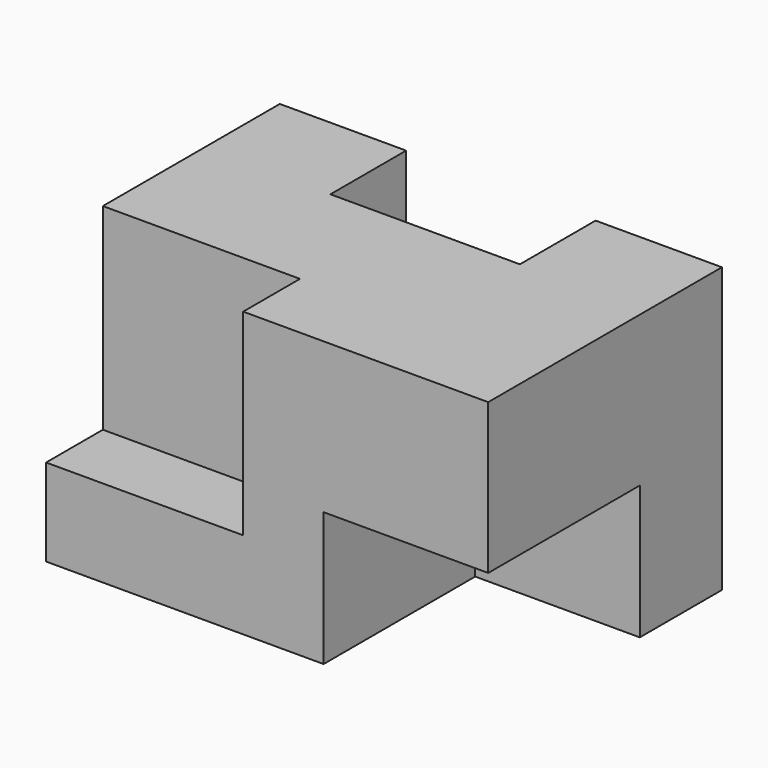
from build123d import *

# Parameters (mm, degrees)
F0_W     = 56.007
F0_H     = 37.0078
F1_DEPTH = 35.9918
F2_W     = 24.003
F2_H     = 11.9888
F3_DEPTH = 81.534
F4_W     = 24.9682
F4_H     = 24.9428
F5_DEPTH = 8.9916
F6_W     = 20.8534
F6_H     = 16.9418
F7_DEPTH = 24.003


with BuildPart() as f1:
    # F0 (on Top) → F1 (new body)
    with BuildSketch(Plane.XY):
        with Locations((28.0035, 18.5039)):
            Rectangle(F0_W, F0_H)
    extrude(amount=F1_DEPTH)

    # F2 (on face) → F3 (cut)
    with BuildSketch(Plane.XY.offset(35.9918)):
        with Locations((28.0035, 31.0134)):
            Rectangle(F2_W, F2_H)
    extrude(amount=-F3_DEPTH, mode=Mode.SUBTRACT)

    # F4 (on face) → F5 (cut)
    with BuildSketch(Plane.XZ):
        with Locations((12.4841, 23.5204)):
            Rectangle(F4_W, F4_H)
    extrude(amount=-F5_DEPTH, mode=Mode.SUBTRACT)

    # F6 (on face) → F7 (cut)
    with BuildSketch(Plane.XZ):
        with Locations((45.5803, 8.4709)):
            Rectangle(F6_W, F6_H)
    extrude(amount=-F7_DEPTH, mode=Mode.SUBTRACT)


solid = f1.part
